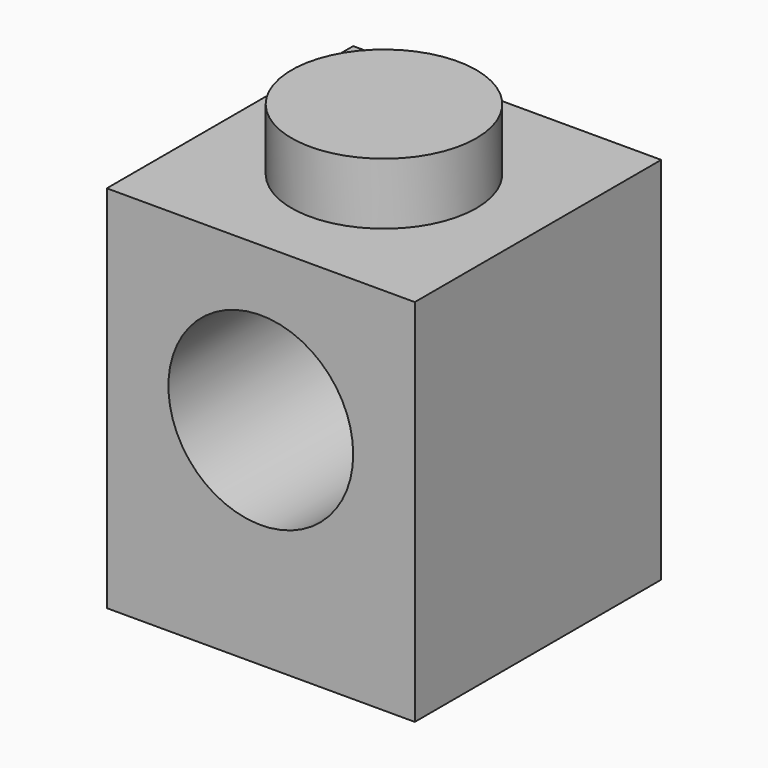
from build123d import *

# Parameters (mm, degrees)
F0_W     = 8
F0_H     = 8
F1_DEPTH = 9.6
F2_R     = 2.4
F3_DEPTH = 25
F4_R     = 2.4
F5_DEPTH = 1.6


with BuildPart() as f1:
    # F0 (on Top) → F1 (new body)
    with BuildSketch(Plane.XY):
        with Locations((-4, 4)):
            Rectangle(F0_W, F0_H)
    extrude(amount=F1_DEPTH)

    # F2 (on face) → F3 (cut)
    with BuildSketch(Plane.XZ):
        with Locations((-4, 5.6)):
            Circle(F2_R)
    extrude(amount=-F3_DEPTH, mode=Mode.SUBTRACT)

    # F4 (on face) → F5 (join)
    with BuildSketch(Plane.XY.offset(9.6)):
        with Locations((-4, 4)):
            Circle(F4_R)
    extrude(amount=F5_DEPTH)


solid = f1.part
